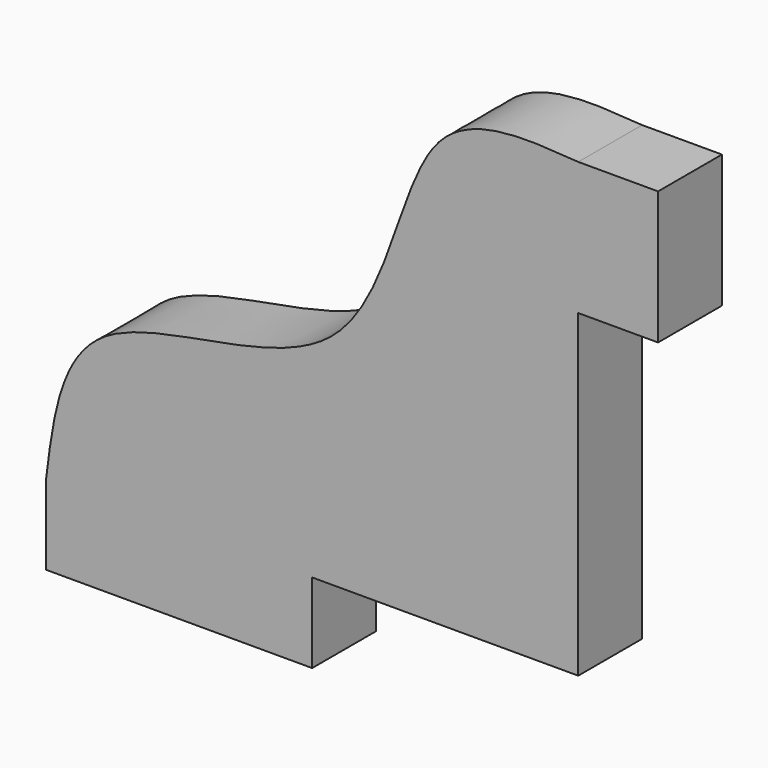
from build123d import *

# Parameters (mm, degrees)
F1_DEPTH = 6


with BuildPart() as f1:
    # F0 (on Front) → F1 (new body)
    with BuildSketch(Plane.XZ):
        with BuildLine():
            Line((-20, 0), (0, 0))
            Line((0, 0), (0, 24))
            Line((0, 24), (6, 24))
            Line((6, 24), (6, 34))
            Line((6, 34), (0, 34))
            add(Edge.make_bspline(
                [(0, 34), (-4.0155134171, 34.2983753738), (-13.1510198564, 34.9771952072), (-14.5400874308, 11.9013792345), (-38.2655270114, 14.1807586639), (-39.4646532403, 4.3769048297), (-40, 0)],
                knots=[0, 0, 0, 0, 0.2161115602, 0.4916652854, 0.7730553, 1, 1, 1, 1], degree=3))
            Line((-40, 0), (-40, -6))
            Line((-40, -6), (-20, -6))
            Line((-20, -6), (-20, 0))
        make_face()
    extrude(amount=F1_DEPTH)


solid = f1.part
